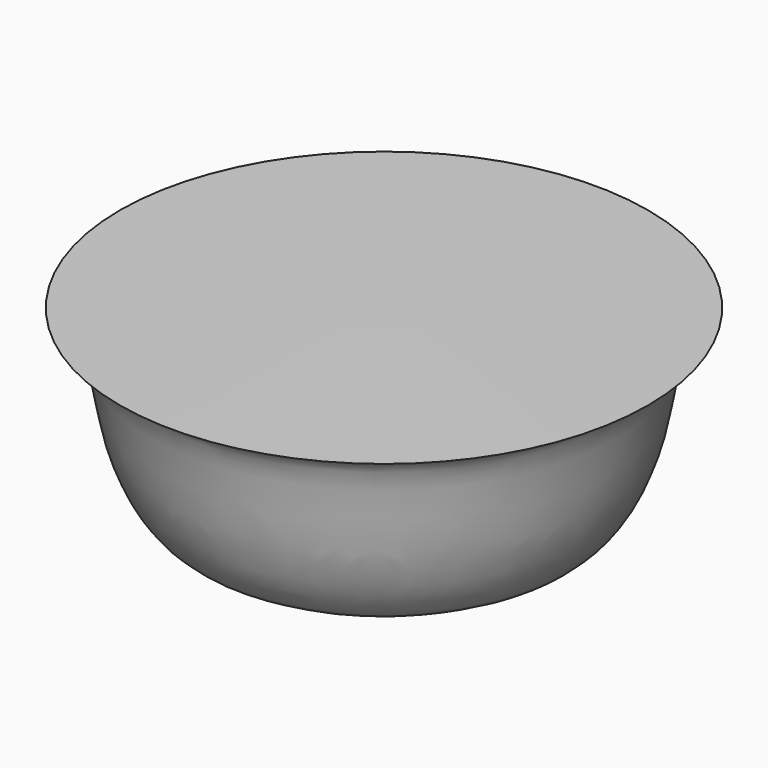
from build123d import *


with BuildPart() as f1:
    # F0 (on Front) → F1 (revolve)
    with BuildSketch(Plane.XZ):
        with BuildLine():
            Line((-50, 0), (0, 0))
            Line((0, 0), (0, 70.8644241095))
            Line((0, 70.8644241095), (-97.6778045294, 70.2749788765))
            add(Edge.make_bspline(
                [(-50, 0), (-55.4069828109, 0.3352417393), (-68.4744194424, 1.1454440901), (-84.049772408, 31.5907485932), (-85.566474386, 65.7054240563), (-94.4646999741, 69.062687804), (-97.6778045294, 70.2749788765)],
                knots=[0, 0, 0, 0, 0.2155422322, 0.5209161114, 0.8270052147, 1, 1, 1, 1], degree=3))
        make_face()
    revolve(axis=Axis((0, 0, 35.4322120547), (0, 0, 1)))


solid = f1.part
